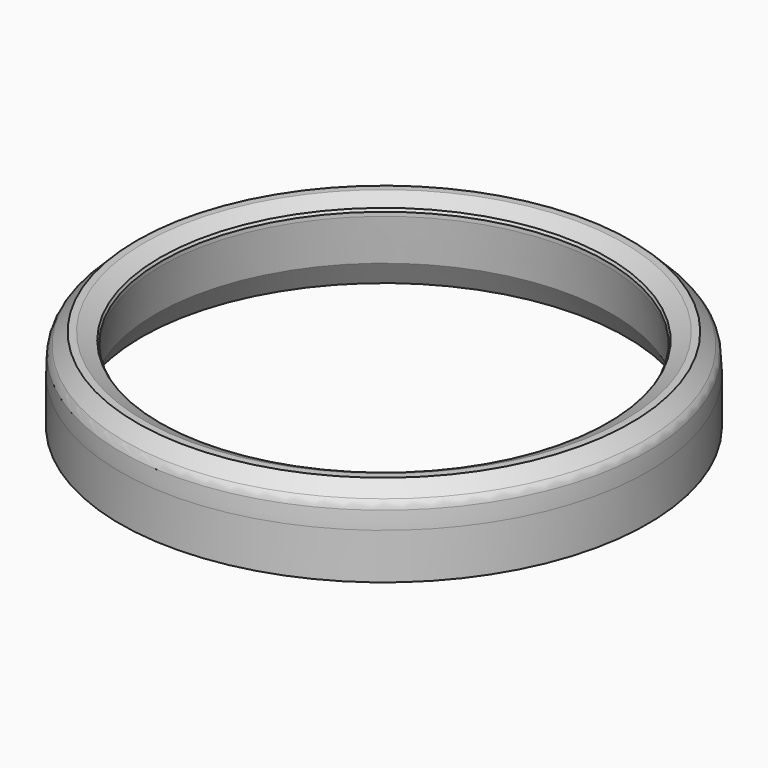
from build123d import *


with BuildPart() as f1:
    # F0 (on Front) → F1 (revolve)
    with BuildSketch(Plane.XZ):
        with BuildLine():
            ThreePointArc((-315.581162, 75.697389), (-316.38636, 65.362614), (-316.655, 55))
            Line((-316.655, 55), (-316.655, 0))
            Line((-316.655, 0), (-290.685231, 0))
            Line((-290.685231, 0), (-273.249253, 30.2))
            Line((-273.249253, 30.2), (-266.765, 83.01))
            Line((-266.765, 83.01), (-266.765, 87.769389))
            Line((-266.765, 87.769389), (-268.601, 90.949435))
            Line((-268.601, 90.949435), (-288.01, 100))
            Line((-288.01, 100), (-296.34, 100))
            Line((-296.34, 100), (-310.98229, 85.353794))
            ThreePointArc((-310.98229, 85.353794), (-314.112499, 80.921247), (-315.581162, 75.697389))
        make_face()
    revolve(axis=Axis((0, 0, 135.777745), (0, 0, -1)))


solid = f1.part
